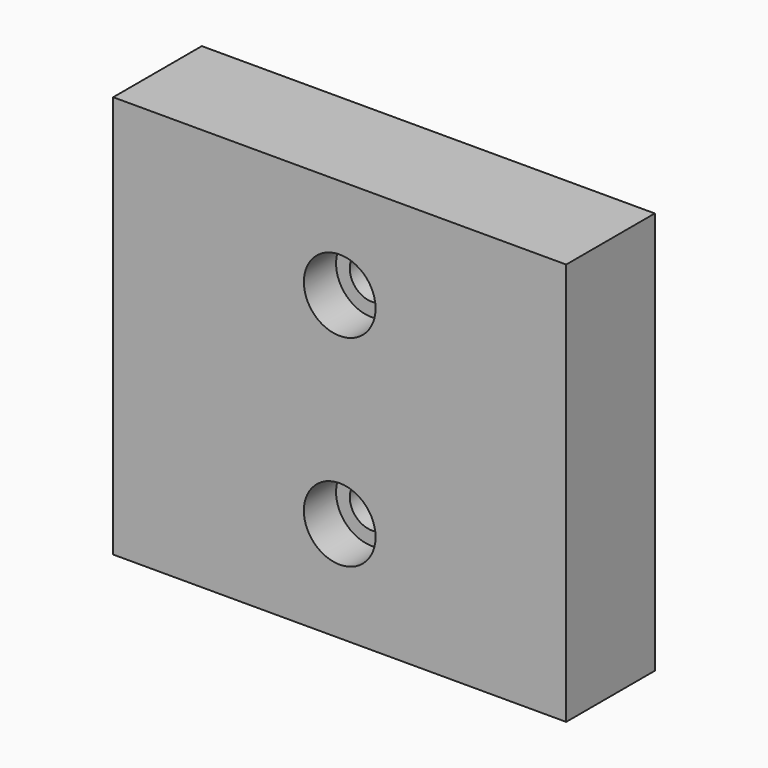
from build123d import *

# Parameters (mm, degrees)
F0_W           = 90
F0_H           = 80
F1_DEPTH       = 22
F3_D           = 8.8
F3_CBORE_D     = 14.25
F3_CBORE_DEPTH = 8


with BuildPart() as f1:
    # F0 (on Front) → F1 (new body)
    with BuildSketch(Plane.XZ):
        Rectangle(F0_W, F0_H)
    extrude(amount=F1_DEPTH)

    # F3 (through all)
    with Locations(Plane.XZ.offset(22)):
        with Locations((0, 20), (0, -20)):
            CounterBoreHole(F3_D / 2, F3_CBORE_D / 2, F3_CBORE_DEPTH)


solid = f1.part
